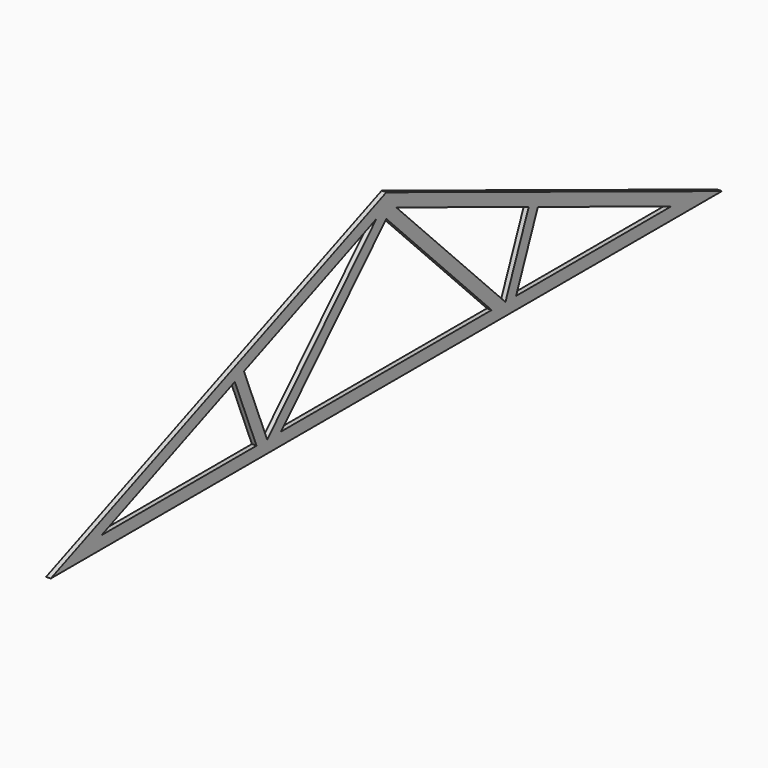
from build123d import *

# Parameters (mm, degrees)
F1_DEPTH = 45


with BuildPart() as f1:
    # F0 (on Right) → F1 (new body)
    with BuildSketch(Plane.YZ):
        Polygon((4074.277038, 5.000037), (0, 1651.114812), (-4074.277038, 5.000037), align=None)
        Polygon((-1728.465278, 823.34534), (-120.533901, 1472.991786), (0, 1521.690643), (120.533901, 1472.991786), (1728.465278, 823.34534), (1839.727341, 778.392549), (3456.930556, 125.000037), (1575.73963, 125.000037), (1446.315461, 125.000037), (1278.002104, 125.000037), (-1278.002104, 125.000037), (-1446.315461, 125.000037), (-1575.73963, 125.000037), (-3456.930556, 125.000037), (-1839.727341, 778.392549), align=None, mode=Mode.SUBTRACT)
        Polygon((-1446.315461, 125.000037), (-1728.465278, 823.34534), (-1839.727341, 778.392549), (-1575.73963, 125.000037), align=None)
        Polygon((0, 1521.690643), (-120.533901, 1472.991786), (-1446.315461, 125.000037), (-1278.002104, 125.000037), (-34.979194, 1388.84672), (0, 1424.411904), align=None)
        Polygon((120.533901, 1472.991786), (0, 1521.690643), (0, 1424.411904), (34.979194, 1388.84672), (1278.002104, 125.000037), (1446.315461, 125.000037), align=None)
        Polygon((1839.727341, 778.392549), (1728.465278, 823.34534), (1446.315461, 125.000037), (1575.73963, 125.000037), align=None)
    extrude(amount=F1_DEPTH)


solid = f1.part
